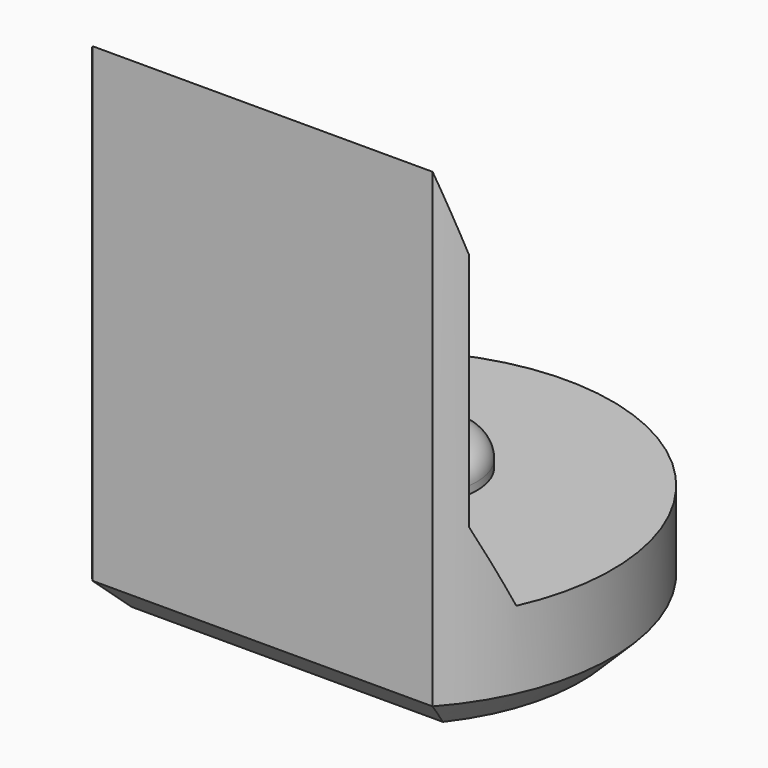
from build123d import *

# Parameters (mm, degrees)
PAD008_DEPTH         = 6.5
POCKET007_DEPTH      = 2.951
POCKET007_DEPTH_BACK = 2.951
SKETCH023_R          = 0.8
PAD009_DEPTH         = 0.4
FILLET001_R          = 0.3
CHAMFER007_SIZE      = 0.4


with BuildPart() as part:
    # Sketch022 → Pad008 (new body)
    with BuildSketch(Plane.XY):
        with BuildLine():
            ThreePointArc((2.2, -1.9653244007), (0, 2.95), (-2.2, -1.9653244007))
            Line((-2.2, -1.9653244007), (2.2, -1.9653244007))
        make_face()
    extrude(amount=PAD008_DEPTH)

    # Sketch024 → Pocket007 (cut, two sides)
    with BuildSketch(Plane.YZ) as pocket007_sk:
        Polygon((-1.97, 6.5), (-1.67, 5.5), (-1.67, 2.4), (-1.22, 1.4), (4, 1.4), (4, 6.5), align=None)
    extrude(amount=-POCKET007_DEPTH, mode=Mode.SUBTRACT)
    extrude(pocket007_sk.sketch, amount=POCKET007_DEPTH_BACK, mode=Mode.SUBTRACT)

    # Sketch023 (on Face7 of Pocket007) → Pad009 (join)
    with BuildSketch(Plane.XY.offset(1.4)):
        with Locations((0, 0.5)):
            Circle(SKETCH023_R)
    extrude(amount=PAD009_DEPTH)

    # Fillet001
    fillet001_edges = [part.edges().sort_by_distance(p)[0] for p in [
        (-0.8, 0.5, 1.8),
    ]]
    fillet(fillet001_edges, radius=FILLET001_R)

    # Chamfer007
    chamfer007_edges = [part.edges().sort_by_distance(p)[0] for p in [
        (0, 2.95, 0),
        (0, -1.965324, 0),
    ]]
    chamfer(chamfer007_edges, length=CHAMFER007_SIZE)


with BuildPart() as part_1:
    # Body089 placement: moved
    add(part.part.moved(Location((0, 54, 0))))


solid = part_1.part
